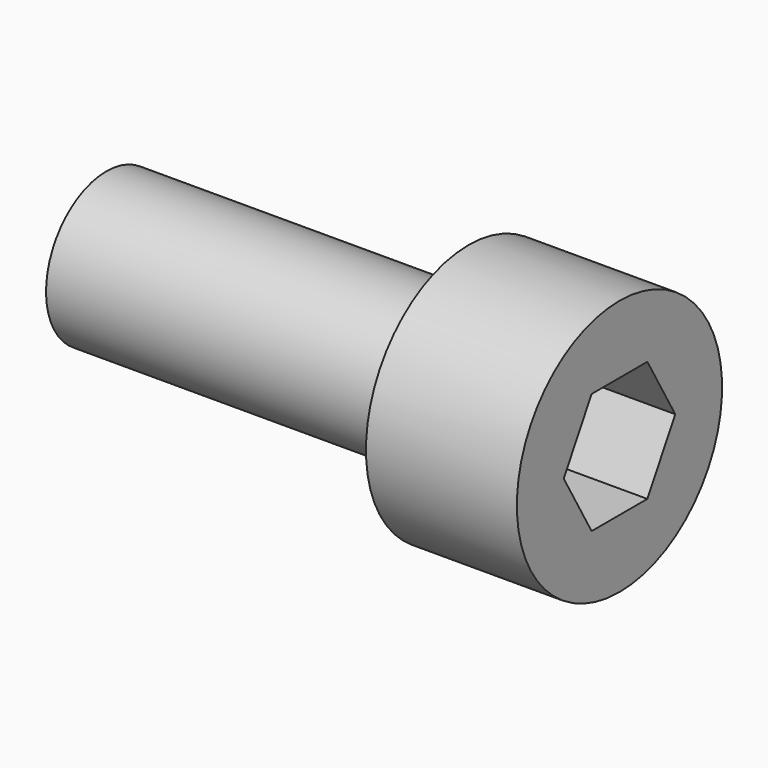
from build123d import *

# Parameters (mm, degrees)
F3_DEPTH = 4


with BuildPart() as f1:
    # F0 (on Front) → F1 (revolve)
    with BuildSketch(Plane.XZ):
        Polygon((0, 2.5), (0, 0), (17, 0), (17, 4.25), (12, 4.25), (12, 2.5), align=None)
    revolve(axis=Axis((8.5, 0, 0), (-1, 0, 0)))

    # F2 (on face) → F3 (cut)
    with BuildSketch(Plane.YZ.offset(17)):
        Polygon((1.154701, 2), (-1.154701, 2), (-2.309401, 0), (-1.154701, -2), (1.154701, -2), (2.309401, 0), align=None)
    extrude(amount=-F3_DEPTH, mode=Mode.SUBTRACT)


solid = f1.part
